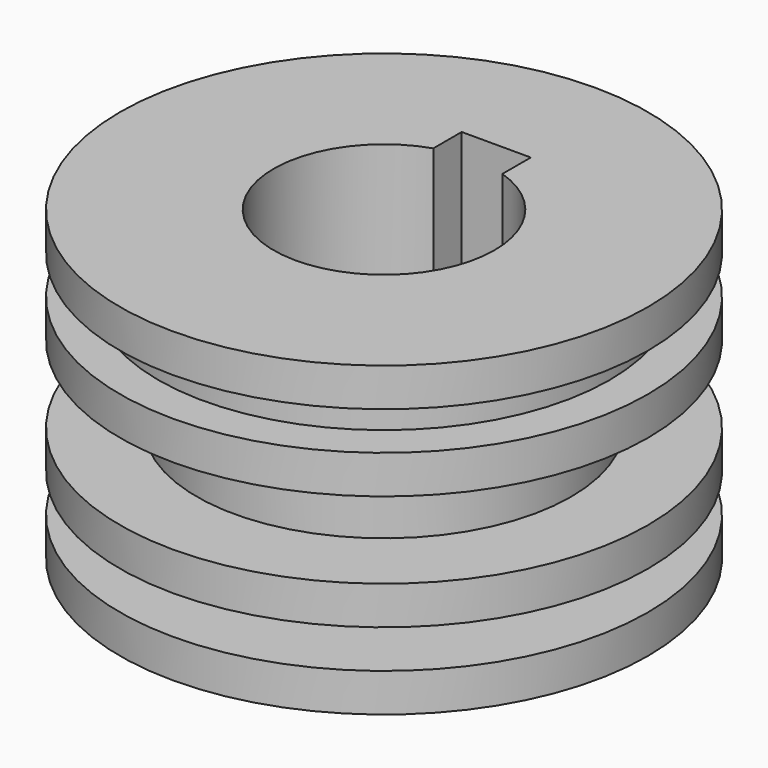
from build123d import *

# Parameters (mm, degrees)
F3_W     = 18
F3_H     = 15
F4_DEPTH = 80.001


with BuildPart() as f2:
    # F2: sweep along a path in F1
    with BuildLine(Plane.XY) as f2_path:
        CenterArc((0, 0), 28.500317, 0, 360)
    # F0 (on Front) → F2 (sweep)
    with BuildSketch(Plane.XZ):
        Polygon((68.741494, 0), (28.741494, 0), (28.741494, -80), (68.741494, -80), (68.741494, -70), (43.741494, -70), (43.741494, -60), (68.741494, -60), (68.741494, -50), (48.741494, -50), (48.741494, -30), (68.741494, -30), (68.741494, -20), (58.741494, -20), (58.741494, -10), (68.741494, -10), align=None)
    sweep(path=f2_path.line)

    # F3 (on Top) → F4 (cut, through all)
    with BuildSketch(Plane.XY):
        with Locations((0, 29.035522)):
            Rectangle(F3_W, F3_H)
    extrude(amount=-F4_DEPTH, mode=Mode.SUBTRACT)


solid = f2.part
